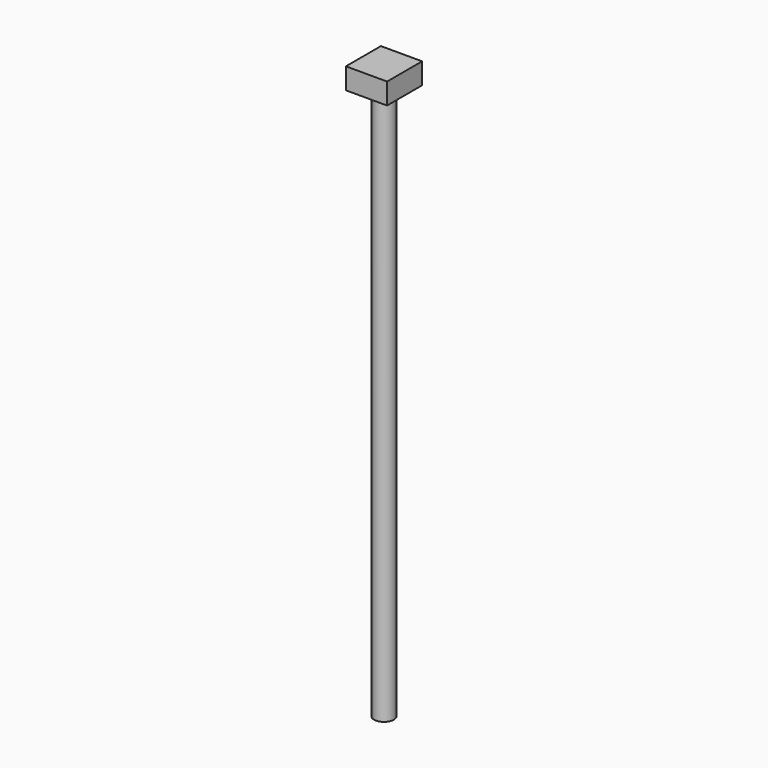
from build123d import *

# Parameters (mm, degrees)
F0_W     = 48.751022
F0_H     = 51.794138
F1_DEPTH = 25
F2_W     = 31.759218
F2_H     = 31.388528
F3_DEPTH = 4
F4_R     = 11.712322
F5_DEPTH = 650


with BuildPart() as f1:
    # F0 (on Top) → F1 (new body)
    with BuildSketch(Plane.XY):
        Rectangle(F0_W, F0_H)
    extrude(amount=F1_DEPTH)

    # F2 (on face) → F3 (join)
    with BuildSketch(Plane(origin=(0, 0, 0), x_dir=(1, 0, 0), z_dir=(0, 0, -1))):
        Rectangle(F2_W, F2_H)
    extrude(amount=F3_DEPTH)

    # F4 (on face) → F5 (join)
    with BuildSketch(Plane(origin=(0, 0, -4), x_dir=(1, 0, 0), z_dir=(0, 0, -1))):
        Circle(F4_R)
    extrude(amount=F5_DEPTH)


solid = f1.part
